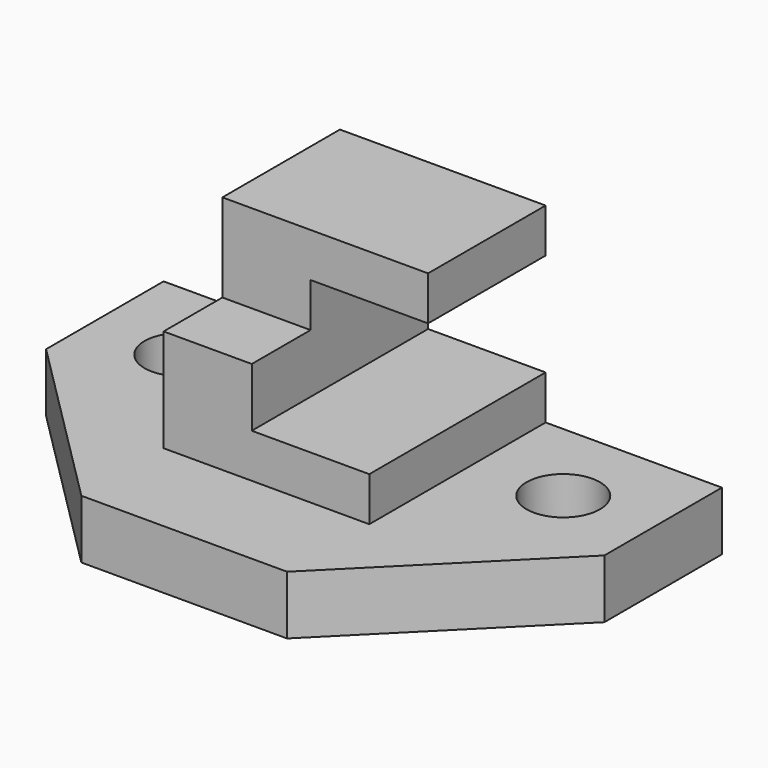
from build123d import *

# Parameters (mm, degrees)
F1_DEPTH      = 12.7
F3_D          = 15.875
F4_W          = 44.45
F4_H          = 31.75
F5_DEPTH      = 41.275
F8_START      = -19.05
F7_W          = 44.45
F7_H          = 15.875
F8_DEPTH      = 22.225
F6_W          = 25.4
F6_H          = 22.225
F9_DEPTH      = 31.751
F9_DEPTH_BACK = 38.101


with BuildPart() as f1:
    # F0 (on Top) → F1 (new body)
    with BuildSketch(Plane.XY):
        Polygon((120.65, 0), (0, 0), (0, -31.75), (38.1, -69.85), (82.55, -69.85), (120.65, -31.75), align=None)
    extrude(amount=F1_DEPTH)

    # F3 (through all)
    with Locations(Plane.XY.offset(12.7)):
        with Locations((19.05, -19.05), (101.6, -19.05)):
            Hole(F3_D / 2)

    # F4 (on face) → F5 (join)
    with BuildSketch(Plane.XY.offset(12.7)):
        with Locations((60.325, -15.875)):
            Rectangle(F4_W, F4_H)
    extrude(amount=F5_DEPTH)

    # F7 (on face) → F8 (join)
    with BuildSketch(Plane.XY.offset(53.975).offset(F8_START)):
        with Locations((60.325, -39.6875)):
            Rectangle(F7_W, F7_H)
    extrude(amount=-F8_DEPTH)

    # F6 (on face) → F9 (cut, two sides)
    with BuildSketch(Plane.XZ.offset(31.75)) as f9_sk:
        with Locations((69.85, 33.3375)):
            Rectangle(F6_W, F6_H)
    extrude(amount=-F9_DEPTH, mode=Mode.SUBTRACT)
    extrude(f9_sk.sketch, amount=F9_DEPTH_BACK, mode=Mode.SUBTRACT)


solid = f1.part
